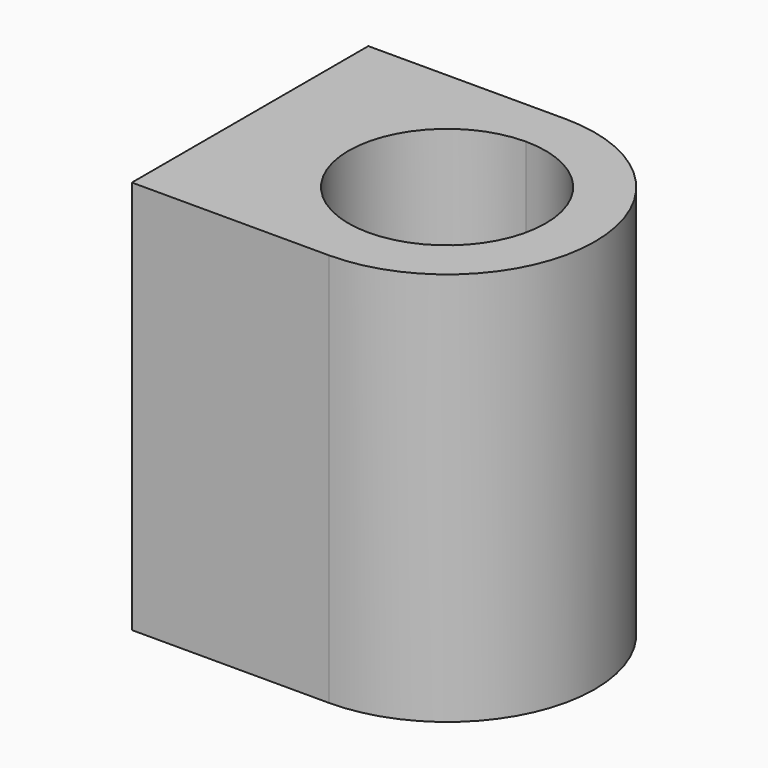
from build123d import *

# Parameters (mm, degrees)
F1_DEPTH = 100


with BuildPart() as f1:
    # F0 (on Top) → F1 (new body)
    with BuildSketch(Plane.XY):
        with BuildLine():
            Line((0, 75), (0, 0))
            Line((0, 0), (50, 0))
            Line((50, 0), (50, 12.5))
            ThreePointArc((50, 12.5), (25, 37.5), (50, 62.5))
            Line((50, 62.5), (50, 75))
            Line((50, 75), (0, 75))
        make_face()
        with BuildLine():
            Line((50, 12.5), (50, 0))
            ThreePointArc((50, 0), (87.5, 37.5), (50, 75))
            Line((50, 75), (50, 62.5))
            ThreePointArc((50, 62.5), (67.67767, 55.17767), (75, 37.5))
            ThreePointArc((75, 37.5), (67.67767, 19.82233), (50, 12.5))
        make_face()
    extrude(amount=F1_DEPTH)


solid = f1.part
